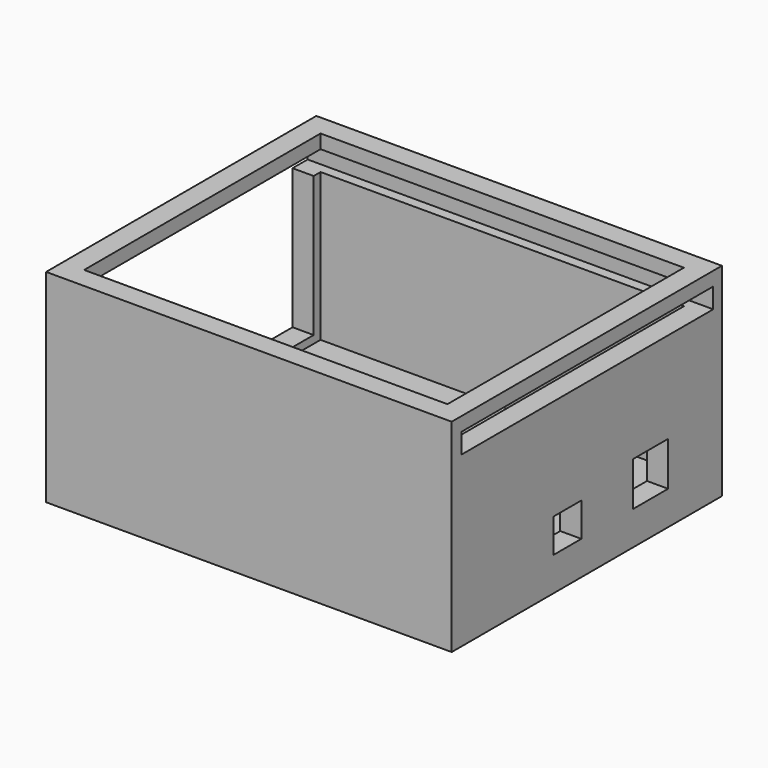
from build123d import *

# Parameters (mm, degrees)
F0_W     = 76.2
F0_H     = 63.462952
F1_DEPTH = 38.1
F2_T     = -3.96875
F3_W     = 59.153464
F3_H     = 3.775753
F4_DEPTH = 84.455
F5_W     = 8.255
F5_H     = 8.262471
F5_W_2   = 6.50875
F5_H_2   = 6.35
F6_DEPTH = 6.35
F8_W     = 52.838832
F8_H     = 26.304427
F9_DEPTH = 6.35


with BuildPart() as f1:
    # F0 (on Top) → F1 (new body)
    with BuildSketch(Plane.XY):
        with Locations((6.831993, -1.102022)):
            Rectangle(F0_W, F0_H)
    extrude(amount=F1_DEPTH)

    # F2
    f2_openings = [f1.faces().sort_by_distance(p)[0] for p in [
        (6.831993, -1.102022, 38.1),
    ]]
    offset(amount=F2_T, openings=f2_openings)

    # F3 (on face) → F4 (cut)
    with BuildSketch(Plane.YZ.offset(44.931993)):
        with Locations((-0.988886, 33.613619)):
            Rectangle(F3_W, F3_H)
    extrude(amount=-F4_DEPTH, mode=Mode.SUBTRACT)

    # F5 (on face) → F6 (cut)
    with BuildSketch(Plane.YZ.offset(44.931993)):
        with Locations((13.865454, 10.481236)):
            Rectangle(F5_W, F5_H)
        with Locations((-5.635625, 9.525)):
            Rectangle(F5_W_2, F5_H_2)
    extrude(amount=-F6_DEPTH, mode=Mode.SUBTRACT)

    # F8 (on face) → F9 (cut)
    with BuildSketch(Plane(origin=(-31.268007, 0, 0), x_dir=(0, -1, 0), z_dir=(-1, 0, 0))):
        with Locations((1.379967, 18.573529)):
            Rectangle(F8_W, F8_H)
    extrude(amount=-F9_DEPTH, mode=Mode.SUBTRACT)


solid = f1.part
